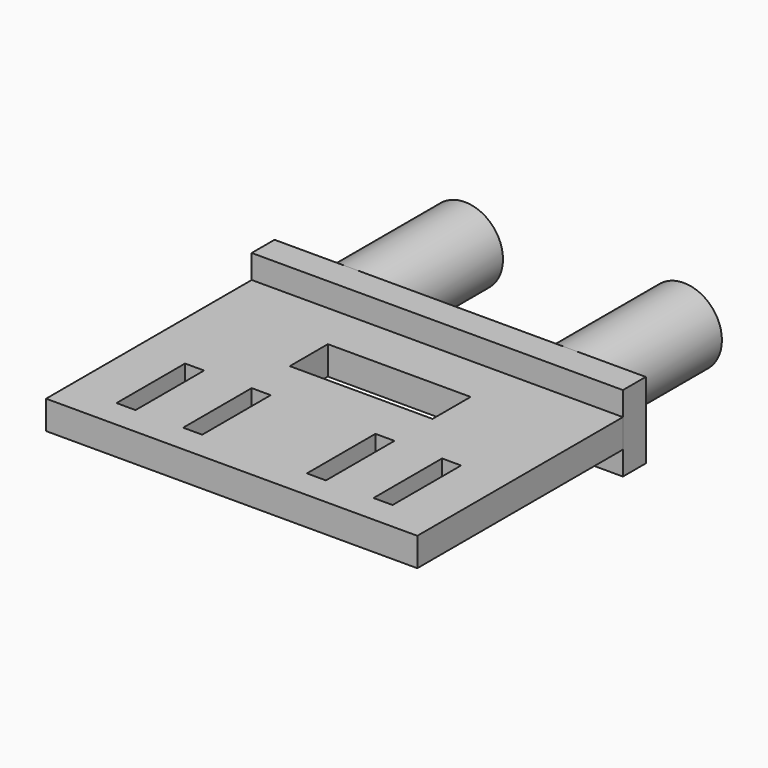
from build123d import *

# Parameters (mm, degrees)
BOX_W                  = 39
BOX_H                  = 3
BOX_DEPTH              = 8
CYLINDER_R             = 4
CYLINDER_DEPTH         = 15
CYLINDER_ROLL_ANGLE    = 90
CYLINDER001_R          = 4
CYLINDER001_DEPTH      = 15
CYLINDER001_ROLL_ANGLE = 90
BOX003_W               = 2
BOX003_H               = 9
BOX003_DEPTH           = 3
BOX004_W               = 2
BOX004_H               = 9
BOX004_DEPTH           = 3
BOX005_W               = 2
BOX005_H               = 9
BOX005_DEPTH           = 3
BOX006_W               = 2
BOX006_H               = 9
BOX006_DEPTH           = 3
BOX002_W               = 15
BOX002_H               = 5
BOX002_DEPTH           = 3
BOX001_W               = 39
BOX001_H               = 27
BOX001_DEPTH           = 3


with BuildPart() as base:
    # Box → Box (new body)
    with BuildSketch(Plane(origin=(-8, -18, -4), x_dir=(1, 0, 0), z_dir=(0, 0, 1))):
        with Locations((19.5, 1.5)):
            Rectangle(BOX_W, BOX_H)
    extrude(amount=BOX_DEPTH)


with BuildPart() as pin2:
    # Cylinder → Cylinder (new body)
    with BuildSketch(Plane.XY):
        Circle(CYLINDER_R)
    extrude(amount=CYLINDER_DEPTH)


with BuildPart() as pin2_1:
    # Cylinder roll: moved
    add(pin2.part.rotate(Axis((0, 0, 0), (1, 0, 0)), CYLINDER_ROLL_ANGLE))


with BuildPart() as pin2_2:
    # Cylinder placement: moved
    add(pin2_1.part.moved(Location((23, 0, 0))))


with BuildPart() as pin1:
    # Cylinder001 → Cylinder001 (new body)
    with BuildSketch(Plane.XY):
        Circle(CYLINDER001_R)
    extrude(amount=CYLINDER001_DEPTH)


with BuildPart() as pin1_1:
    # Cylinder001 roll: moved
    add(pin1.part.rotate(Axis((0, 0, 0), (1, 0, 0)), CYLINDER001_ROLL_ANGLE))


with BuildPart() as pin1_2:
    # Cylinder001 placement: moved
    add(pin1_1.part)


with BuildPart() as cut2:
    # Box003 → Box003 (new body)
    with BuildSketch(Plane(origin=(24, -42, -1.5), x_dir=(1, 0, 0), z_dir=(0, 0, 1))):
        with Locations((1, 4.5)):
            Rectangle(BOX003_W, BOX003_H)
    extrude(amount=BOX003_DEPTH)


with BuildPart() as cut003:
    # Box004 → Box004 (new body)
    with BuildSketch(Plane(origin=(17, -42, -1.5), x_dir=(1, 0, 0), z_dir=(0, 0, 1))):
        with Locations((1, 4.5)):
            Rectangle(BOX004_W, BOX004_H)
    extrude(amount=BOX004_DEPTH)


with BuildPart() as cut004:
    # Box005 → Box005 (new body)
    with BuildSketch(Plane(origin=(4, -42, -1.5), x_dir=(1, 0, 0), z_dir=(0, 0, 1))):
        with Locations((1, 4.5)):
            Rectangle(BOX005_W, BOX005_H)
    extrude(amount=BOX005_DEPTH)


with BuildPart() as cut005:
    # Box006 → Box006 (new body)
    with BuildSketch(Plane(origin=(-3, -42, -1.5), x_dir=(1, 0, 0), z_dir=(0, 0, 1))):
        with Locations((1, 4.5)):
            Rectangle(BOX006_W, BOX006_H)
    extrude(amount=BOX006_DEPTH)


with BuildPart() as fusion:
    # Box002 → Box002 (new body)
    with BuildSketch(Plane(origin=(4, -28, -1.5), x_dir=(1, 0, 0), z_dir=(0, 0, 1))):
        with Locations((7.5, 2.5)):
            Rectangle(BOX002_W, BOX002_H)
    extrude(amount=BOX002_DEPTH)

    # Fusion: union Cut2, Cut003, Cut004, Cut005
    add(cut2.part)
    add(cut003.part)
    add(cut004.part)
    add(cut005.part)


with BuildPart() as cut:
    # Box001 → Box001 (new body)
    with BuildSketch(Plane(origin=(-8, -45, -1.5), x_dir=(1, 0, 0), z_dir=(0, 0, 1))):
        with Locations((19.5, 13.5)):
            Rectangle(BOX001_W, BOX001_H)
    extrude(amount=BOX001_DEPTH)

    # Cut: cut Fusion
    add(fusion.part, mode=Mode.SUBTRACT)


solid = Compound([base.part, pin2_2.part, pin1_2.part, cut.part])
